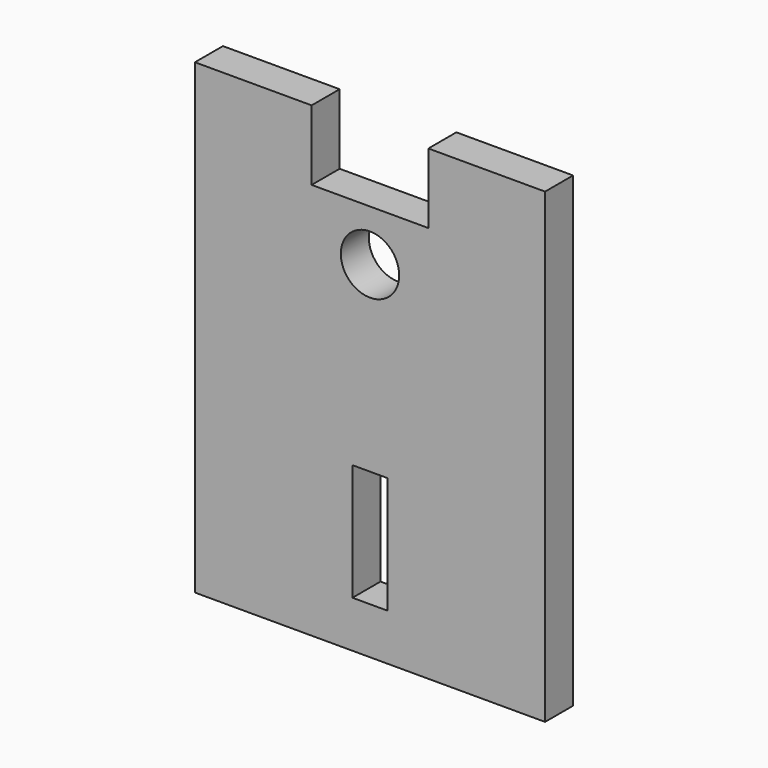
from build123d import *

# Parameters (mm, degrees)
F0_W     = 3
F0_H     = 10
F0_R     = 2.5
F1_DEPTH = 3


with BuildPart() as f1:
    # F0 (on Front) → F1 (new body)
    with BuildSketch(Plane.XZ):
        Polygon((5, 4.380814), (-5, 4.380814), (-5, 10.380814), (-15, 10.380814), (-15, -29.619186), (15, -29.619186), (15, 10.380814), (5, 10.380814), align=None)
        with Locations((0, -20.619186)):
            Rectangle(F0_W, F0_H, mode=Mode.SUBTRACT)
        Circle(F0_R, mode=Mode.SUBTRACT)
    extrude(amount=F1_DEPTH)


solid = f1.part
